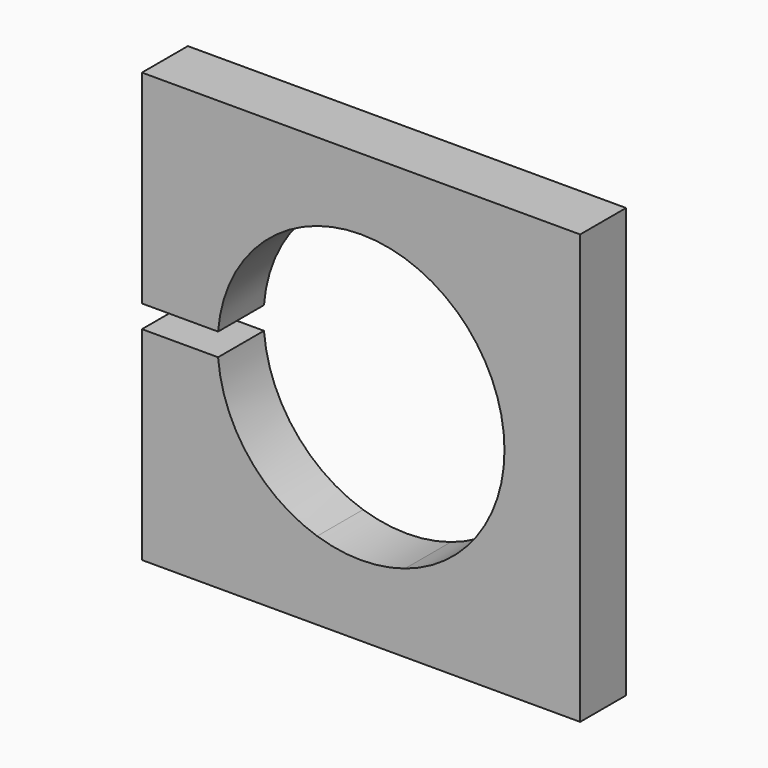
from build123d import *

# Parameters (mm, degrees)
F1_DEPTH = 12.7


with BuildPart() as f1:
    # F0 (on Front) → F1 (new body)
    with BuildSketch(Plane.XZ):
        with BuildLine():
            ThreePointArc((-31.651422, 2.5), (-24.900857, 19.697964), (-9.718612, 30.226))
            ThreePointArc((-9.718612, 30.226), (0, 31.75), (9.718612, 30.226))
            ThreePointArc((9.718612, 30.226), (25.657635, 18.701558), (31.75, 0))
            ThreePointArc((31.75, 0), (25.657635, -18.701558), (9.718612, -30.226))
            ThreePointArc((9.718612, -30.226), (0, -31.75), (-9.718612, -30.226))
            ThreePointArc((-9.718612, -30.226), (-24.900857, -19.697964), (-31.651422, -2.5))
            Line((-31.651422, -2.5), (-48.5, -2.5))
            Line((-48.5, -2.5), (-48.5, -47.5))
            Line((-48.5, -47.5), (48.5, -47.5))
            Line((48.5, -47.5), (48.5, 47.5))
            Line((48.5, 47.5), (-48.5, 47.5))
            Line((-48.5, 47.5), (-48.5, 2.5))
            Line((-48.5, 2.5), (-31.651422, 2.5))
        make_face()
    extrude(amount=F1_DEPTH)


solid = f1.part
